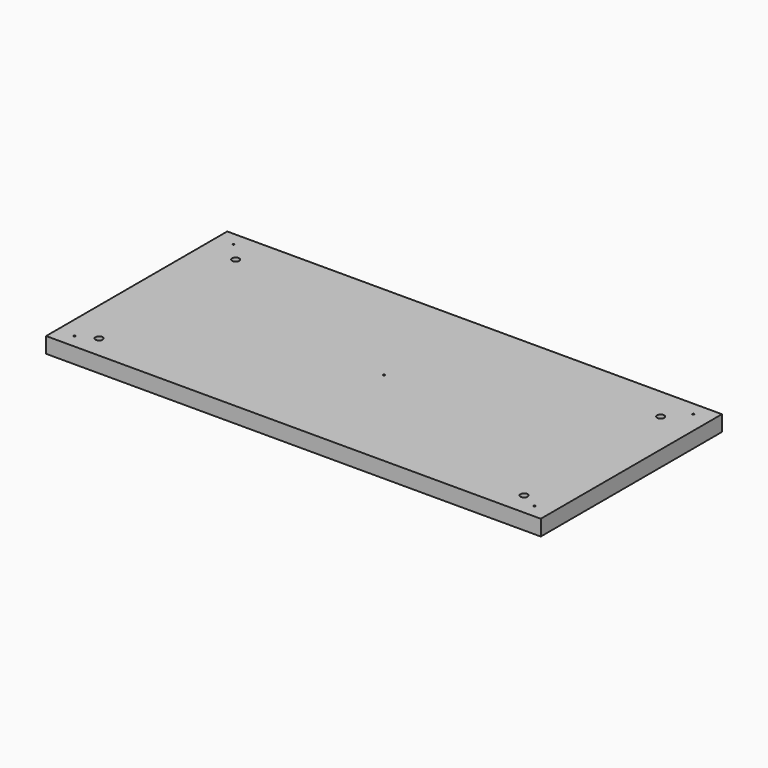
from build123d import *

# Parameters (mm, degrees)
F0_W     = 901.7
F0_H     = 412.75
F1_DEPTH = 28.575
F3_D     = 12.9794
F3_DEPTH = 31.75
F5_D     = 3.175
F5_DEPTH = 31.75


with BuildPart() as f1:
    # F0 (on Top) → F1 (new body)
    with BuildSketch(Plane.XY):
        Rectangle(F0_W, F0_H)
    extrude(amount=F1_DEPTH)

    # F3
    with Locations(Plane.XY.offset(28.575)):
        with Locations((-387.35, 146.05), (-387.35, -165.1), (387.35, -165.1), (387.35, 146.05)):
            Hole(F3_D / 2, depth=F3_DEPTH)

    # F5
    with Locations(Plane.XY.offset(28.575)):
        with Locations((-419.1, 180.975), (-419.1, -180.975), (419.1, -180.975), (419.1, 180.975), (0, 0)):
            Hole(F5_D / 2, depth=F5_DEPTH)


solid = f1.part
